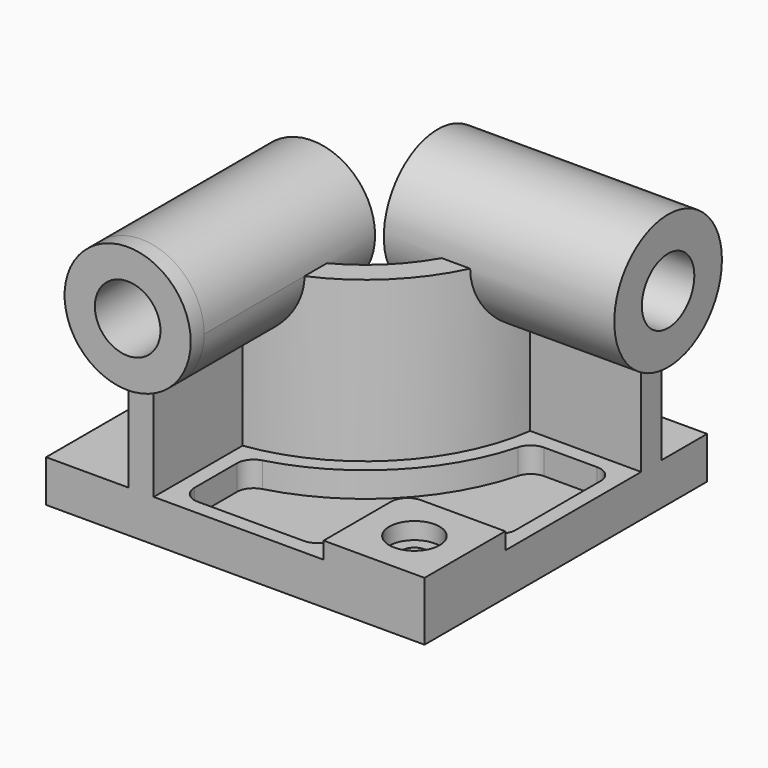
from build123d import *

# Parameters (mm, degrees)
F0_W            = 225
F0_H            = 210
F1_DEPTH        = 25
F3_DEPTH        = 95
F4_R            = 37.5
F5_DEPTH        = 10
F5_DEPTH_BACK   = 127
F6_R            = 40
F7_DEPTH        = 10
F7_DEPTH_BACK   = 127
F8_W            = 60
F8_H            = 60
F9_DEPTH        = 10
F10_R           = 10
F12_DEPTH       = 15
F14_D           = 15
F14_CBORE_D     = 30
F14_CBORE_DEPTH = 10
F15_R           = 10
F16_R           = 19.5
F17_DEPTH       = 220.001
F18_R           = 19.5
F19_DEPTH       = 235.001


with BuildPart() as f1:
    # F0 (on Top) → F1 (new body)
    with BuildSketch(Plane.XY):
        Rectangle(F0_W, F0_H)
    extrude(amount=F1_DEPTH)

    # F2 (on face) → F3 (join)
    with BuildSketch(Plane.XY.offset(25)):
        with BuildLine():
            Line((-63.5, -25), (-63.5, -105))
            Line((-63.5, -105), (-48.5, -105))
            Line((-48.5, -105), (-48.5, -38.981817))
            ThreePointArc((-48.5, -38.981817), (14.988853, -7.488853), (46.481817, 56))
            Line((46.481817, 56), (112.5, 56))
            Line((112.5, 56), (112.5, 71))
            Line((112.5, 71), (32.5, 71))
            ThreePointArc((32.5, 71), (4.382251, 3.117749), (-63.5, -25))
        make_face()
    extrude(amount=F3_DEPTH)

    # F4 (on face) → F5 (join, two sides)
    with BuildSketch(Plane.XZ.offset(105)) as f5_sk:
        with Locations((-56, 120)):
            Circle(F4_R)
    extrude(amount=F5_DEPTH)
    extrude(f5_sk.sketch, amount=-F5_DEPTH_BACK)

    # F6 (on face) → F7 (join, two sides)
    with BuildSketch(Plane.YZ.offset(112.5)) as f7_sk:
        with Locations((63.5, 120)):
            Circle(F6_R)
    extrude(amount=F7_DEPTH)
    extrude(f7_sk.sketch, amount=-F7_DEPTH_BACK)

    # F8 (on face) → F9 (join)
    with BuildSketch(Plane.XY.offset(25)):
        with Locations((82.5, -75)):
            Rectangle(F8_W, F8_H)
    extrude(amount=F9_DEPTH)

    # F10
    f10_edges = [f1.edges().sort_by_distance(p)[0] for p in [
        (52.5, -45, 30),
    ]]
    fillet(f10_edges, radius=F10_R)

    # F11 (on face) → F12 (cut)
    with BuildSketch(Plane.XY.offset(25)):
        with BuildLine():
            ThreePointArc((54.075507, 47.000001), (21.352813, -13.852813), (-39.500001, -46.575507))
            Line((-39.500001, -46.575507), (-39.500001, -96.000001))
            Line((-39.500001, -96.000001), (43.500001, -96.000001))
            Line((43.500001, -96.000001), (43.500001, -55))
            ThreePointArc((43.500001, -55), (49.064972, -41.564972), (62.5, -36.000001))
            Line((62.5, -36.000001), (103.500001, -36.000001))
            Line((103.500001, -36.000001), (103.500001, 47.000001))
            Line((103.500001, 47.000001), (54.075507, 47.000001))
        make_face()
    extrude(amount=-F12_DEPTH, mode=Mode.SUBTRACT)

    # F14 (through all)
    with Locations(Plane.XY.offset(35)):
        with Locations((82.5, -75)):
            CounterBoreHole(F14_D / 2, F14_CBORE_D / 2, F14_CBORE_DEPTH)

    # F15
    f15_edges = [f1.edges().sort_by_distance(p)[0] for p in [
        (103.500001, -36.000001, 17.5),
        (43.500001, -96.000001, 17.5),
        (-39.500001, -46.575507, 17.5),
        (54.075507, 47.000001, 17.5),
        (-39.500001, -96.000001, 17.5),
        (103.500001, 47.000001, 17.5),
    ]]
    fillet(f15_edges, radius=F15_R)

    # F16 (on face) → F17 (cut, through all)
    with BuildSketch(Plane.XZ.offset(115)):
        with Locations((-56, 120)):
            Circle(F16_R)
    extrude(amount=-F17_DEPTH, mode=Mode.SUBTRACT)

    # F18 (on face) → F19 (cut, through all)
    with BuildSketch(Plane.YZ.offset(122.5)):
        with Locations((63.5, 120)):
            Circle(F18_R)
    extrude(amount=-F19_DEPTH, mode=Mode.SUBTRACT)


solid = f1.part
